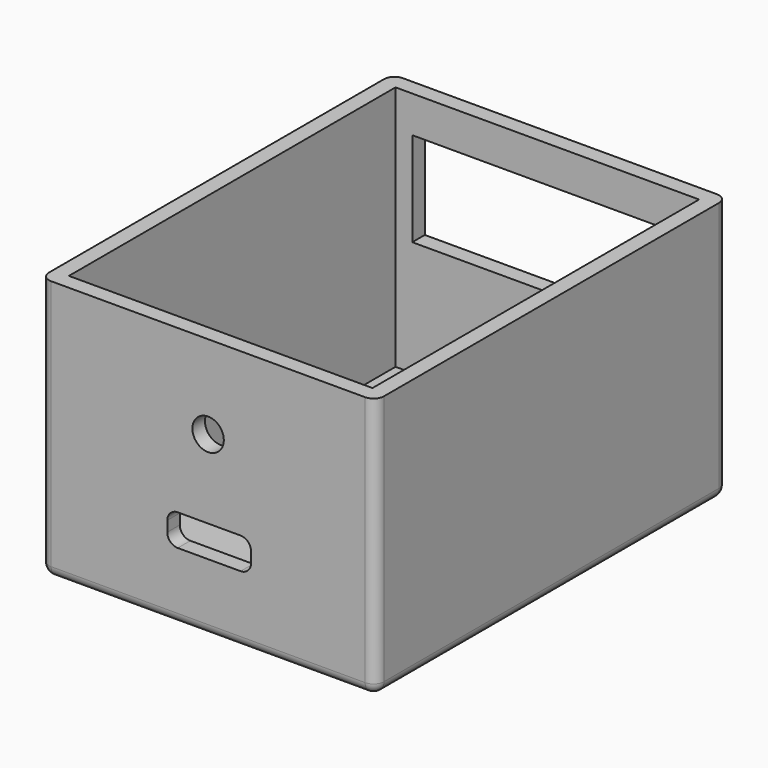
from build123d import *

# Parameters (mm, degrees)
BOX003_W            = 8
BOX003_H            = 6
BOX003_DEPTH        = 3
FILLET003_R         = 1
BOX004_W            = 25.5
BOX004_H            = 5
BOX004_DEPTH        = 9
CYLINDER_R          = 1.5
CYLINDER_DEPTH      = 3.5
CYLINDER_ROLL_ANGLE = 90
SKETCH_W            = 32
SKETCH_H            = 42
PAD_DEPTH           = 25
SKETCH001_W         = 29
SKETCH001_H         = 39
POCKET_DEPTH        = 23.5
FILLET001_R         = 1


with BuildPart() as fillet003:
    # Box003 → Box003 (new body)
    with BuildSketch(Plane(origin=(26, -16, 6.5), x_dir=(1, 0, 0), z_dir=(0, 0, 1))):
        with Locations((4, 3)):
            Rectangle(BOX003_W, BOX003_H)
    extrude(amount=BOX003_DEPTH)

    # Fillet003
    fillet003_edges = [fillet003.edges().sort_by_distance(p)[0] for p in [
        (26, -16, 8),
        (26, -13, 9.5),
        (26, -10, 8),
        (26, -13, 6.5),
        (34, -16, 8),
        (34, -13, 9.5),
        (34, -10, 8),
        (34, -13, 6.5),
        (30, -16, 6.5),
        (30, -16, 9.5),
        (30, -10, 6.5),
        (30, -10, 9.5),
    ]]
    fillet(fillet003_edges, radius=FILLET003_R)


with BuildPart() as fillet003_1:
    # Fillet003 placement: moved
    add(fillet003.part.moved(Location((0, -1, 0))))


with BuildPart() as cubo001:
    # Box004 → Box004 (new body)
    with BuildSketch(Plane(origin=(17, 24, 12.5), x_dir=(1, 0, 0), z_dir=(0, 0, 1))):
        with Locations((12.75, 2.5)):
            Rectangle(BOX004_W, BOX004_H)
    extrude(amount=BOX004_DEPTH)


with BuildPart() as holes:
    # Cylinder → Cylinder (new body)
    with BuildSketch(Plane.XY):
        Circle(CYLINDER_R)
    extrude(amount=CYLINDER_DEPTH)


with BuildPart() as holes_1:
    # Cylinder roll: moved
    add(holes.part.rotate(Axis((0, 0, 0), (1, 0, 0)), CYLINDER_ROLL_ANGLE))


with BuildPart() as holes_2:
    # Cylinder placement: moved
    add(holes_1.part.moved(Location((29.9, -12.65, 17))))

    # Fusion001: union Fillet003, Cubo001
    add(fillet003_1.part)
    add(cubo001.part)


with BuildPart() as cabinet_drilled:
    # Sketch → Pad (new body)
    with BuildSketch(Plane.XY):
        with Locations((29.906403, 6.669162)):
            Rectangle(SKETCH_W, SKETCH_H)
    extrude(amount=PAD_DEPTH)

    # Sketch001 (on Face6 of Pad) → Pocket (cut)
    with BuildSketch(Plane.XY.offset(25)):
        with Locations((29.906403, 6.669162)):
            Rectangle(SKETCH001_W, SKETCH001_H)
    extrude(amount=-POCKET_DEPTH, mode=Mode.SUBTRACT)

    # Fillet001
    fillet001_edges = [cabinet_drilled.edges().sort_by_distance(p)[0] for p in [
        (13.906403, 27.669162, 12.5),
        (45.906403, 27.669162, 12.5),
        (29.906403, 27.669162, 0),
        (13.906403, -14.330838, 12.5),
        (13.906403, 6.669162, 0),
        (45.906403, -14.330838, 12.5),
        (45.906403, 6.669162, 0),
        (29.906403, -14.330838, 0),
    ]]
    fillet(fillet001_edges, radius=FILLET001_R)


with BuildPart() as cabinet_drilled_1:
    # Fillet001 placement: moved
    add(cabinet_drilled.part.moved(Location((-0.005501, -0.803173, 0))))

    # Cut: cut Holes
    add(holes_2.part, mode=Mode.SUBTRACT)


solid = cabinet_drilled_1.part
